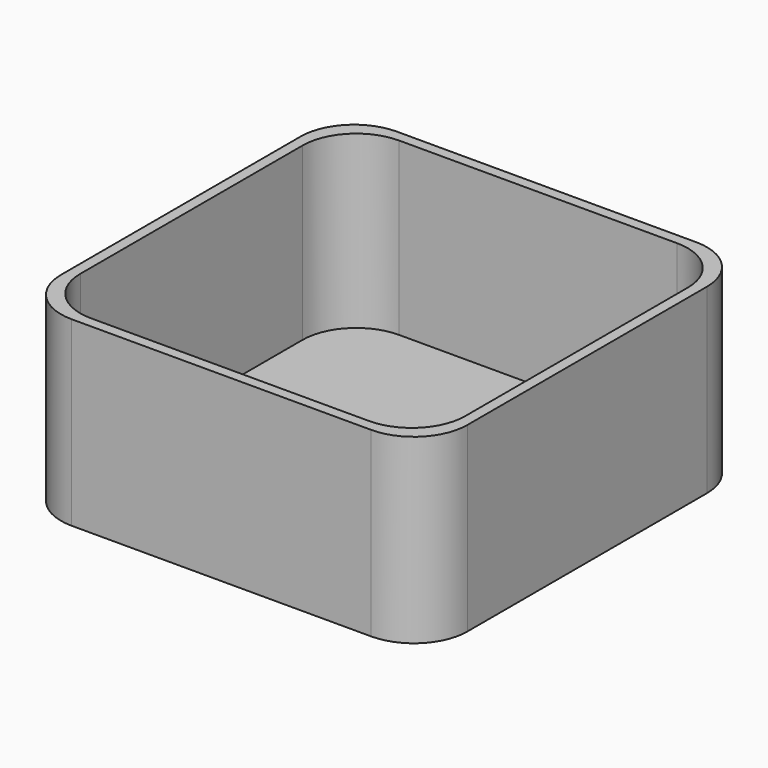
from build123d import *

# Parameters (mm, degrees)
F0_W     = 36
F0_H     = 36
F1_DEPTH = 1
F0_W_2   = 38
F0_H_2   = 38
F2_DEPTH = 17
F3_R     = 5


with BuildPart() as f1:
    # F0 (on Top) → F1 (new body)
    with BuildSketch(Plane.XY):
        Rectangle(F0_W, F0_H)
    extrude(amount=F1_DEPTH)

    # F0 (on Top) → F2 (join)
    with BuildSketch(Plane.XY):
        Rectangle(F0_W_2, F0_H_2)
        Rectangle(F0_W, F0_H, mode=Mode.SUBTRACT)
    extrude(amount=F2_DEPTH)

    # F3
    f3_edges = [f1.edges().sort_by_distance(p)[0] for p in [
        (-18, 18, 9),
        (18, 18, 9),
        (18, -18, 9),
        (-18, -18, 9),
        (-19, 19, 8.5),
        (-19, -19, 8.5),
        (19, -19, 8.5),
        (19, 19, 8.5),
    ]]
    fillet(f3_edges, radius=F3_R)


solid = f1.part
